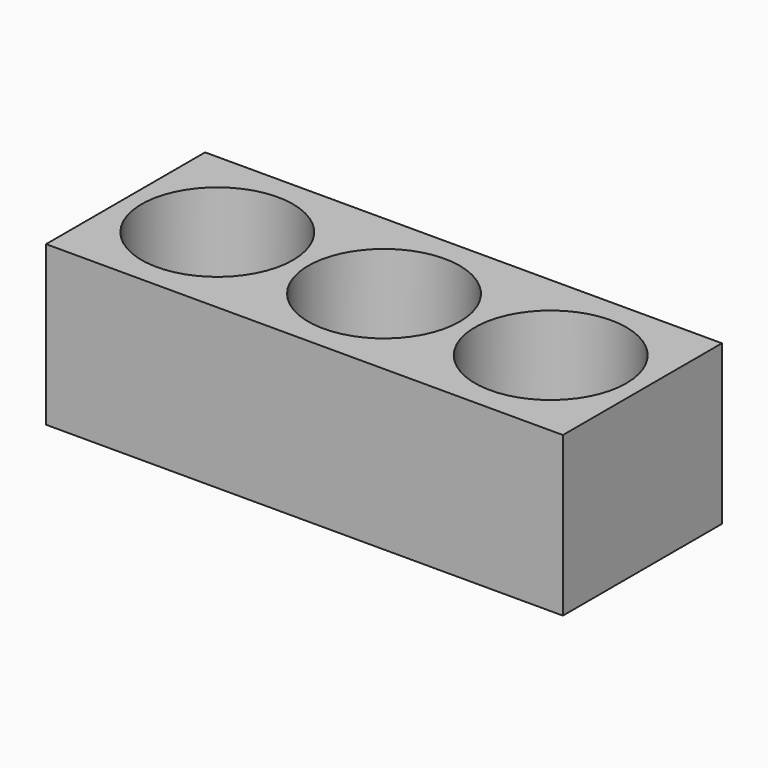
from build123d import *

# Parameters (mm, degrees)
F0_W     = 330.2
F0_H     = 127
F0_R     = 48.387
F1_DEPTH = 101.6


with BuildPart() as f1:
    # F0 (on Top) → F1 (new body)
    with BuildSketch(Plane.XY):
        with Locations((-51.407651, 0)):
            Rectangle(F0_W, F0_H)
        with Locations((-157.909851, 0)):
            Circle(F0_R, mode=Mode.SUBTRACT)
        with Locations((-51.407651, 0)):
            Circle(F0_R, mode=Mode.SUBTRACT)
        with Locations((55.094549, 0)):
            Circle(F0_R, mode=Mode.SUBTRACT)
    extrude(amount=F1_DEPTH)


solid = f1.part
